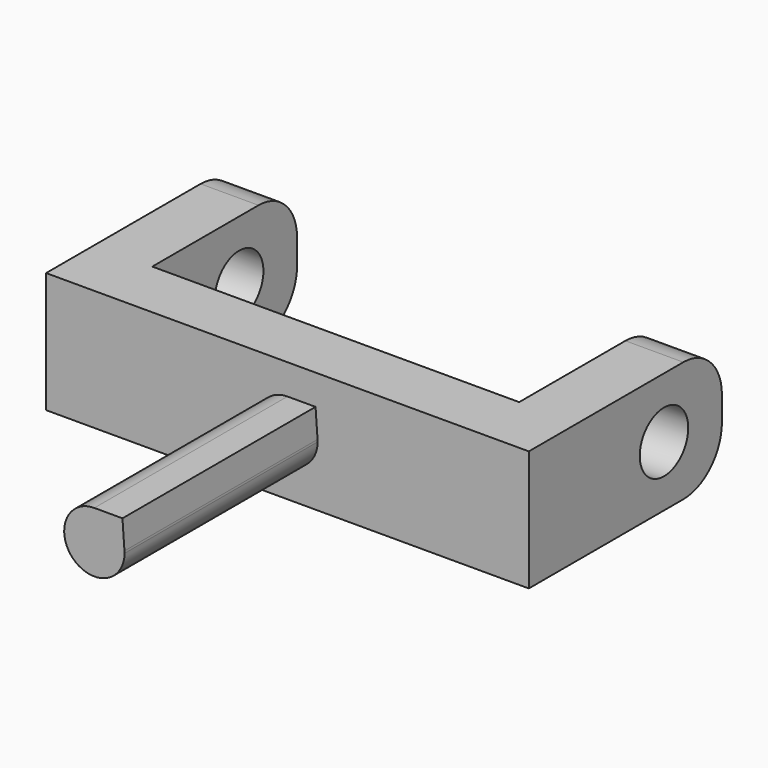
from build123d import *

# Parameters (mm, degrees)
F0_W     = 50.8
F0_H     = 12.7
F1_DEPTH = 25.4
F3_DEPTH = 25.4
F5_DEPTH = 25.4
F6_DEPTH = 25.4
F7_R     = 3.1877
F8_DEPTH = 76.2
F9_R     = 5.08


with BuildPart() as f1:
    # F0 (on Front) → F1 (new body)
    with BuildSketch(Plane.XZ):
        with Locations((25.4, 6.35)):
            Rectangle(F0_W, F0_H)
    extrude(amount=F1_DEPTH)

    # F2 (on face) → F3 (cut)
    with BuildSketch(Plane.XY.offset(12.7)):
        Polygon((6.096, 0), (6.096, -19.05), (44.704, -19.05), (44.704, 0), (6.35, 0), align=None)
    extrude(amount=-F3_DEPTH, mode=Mode.SUBTRACT)

    # F4 (on face) → F5 (join)
    with BuildSketch(Plane.XZ.offset(25.4)):
        with BuildLine():
            ThreePointArc((28.566967, 6.575717), (27.56379, 8.673497), (25.4, 9.525))
            ThreePointArc((25.4, 9.525), (23.154936, 4.104936), (28.575, 6.35))
            ThreePointArc((28.575, 6.35), (28.572991, 6.46293), (28.566967, 6.575717))
        make_face()
        with BuildLine():
            Line((28.356764, 9.525), (25.4, 9.525))
            ThreePointArc((25.4, 9.525), (27.56379, 8.673497), (28.566967, 6.575717))
            Line((28.566967, 6.575717), (28.356764, 9.525))
        make_face()
    extrude(amount=F5_DEPTH)

    # F7 (on face) → F8 (cut)
    with BuildSketch(Plane.YZ.offset(50.8)):
        with Locations((-7.62, 6.35)):
            Circle(F7_R)
    extrude(amount=-F8_DEPTH, mode=Mode.SUBTRACT)

    # F9
    f9_edges = [f1.edges().sort_by_distance(p)[0] for p in [
        (47.752, 0, 12.7),
        (3.048, 0, 12.7),
        (3.048, 0, 0),
        (47.752, 0, 0),
    ]]
    fillet(f9_edges, radius=F9_R)


with BuildPart() as f6:
    # F4 (on face) → F6 (new body)
    with BuildSketch(Plane.XZ.offset(25.4)):
        with BuildLine():
            ThreePointArc((28.566967, 6.575717), (27.56379, 8.673497), (25.4, 9.525))
            ThreePointArc((25.4, 9.525), (23.154936, 4.104936), (28.575, 6.35))
            ThreePointArc((28.575, 6.35), (28.572991, 6.46293), (28.566967, 6.575717))
        make_face()
        with BuildLine():
            Line((28.356764, 9.525), (25.4, 9.525))
            ThreePointArc((25.4, 9.525), (27.56379, 8.673497), (28.566967, 6.575717))
            Line((28.566967, 6.575717), (28.356764, 9.525))
        make_face()
    extrude(amount=F6_DEPTH)


solid = Compound([f1.part, f6.part])
